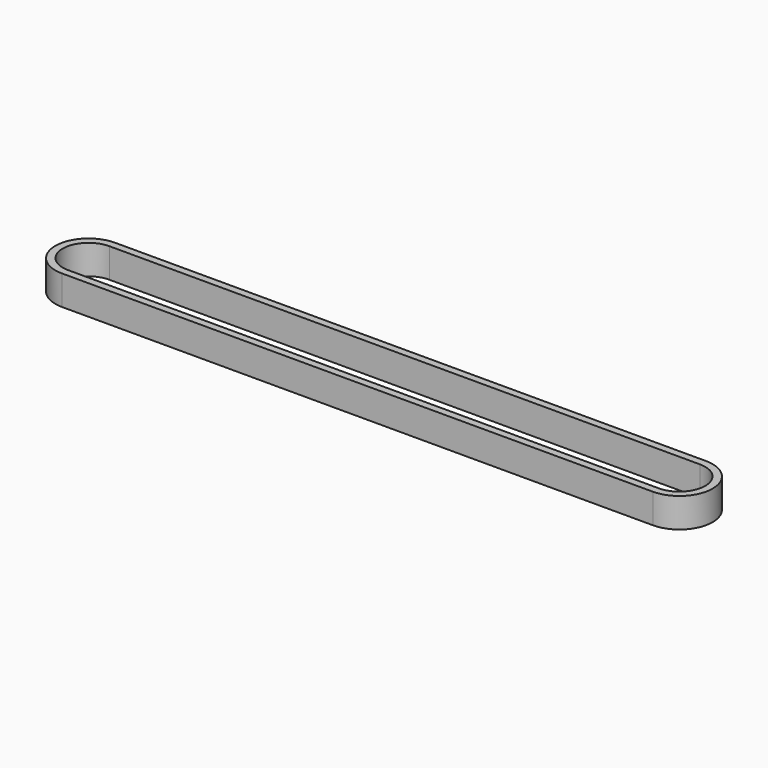
from build123d import *

# Parameters (mm, degrees)
PAD_DEPTH = 6


with BuildPart() as part:
    # Sketch → Pad (new body)
    with BuildSketch(Plane.XY):
        with BuildLine():
            Line((-60, 6.75), (60, 6.75))
            ThreePointArc((59.999999, -6.75), (66.749999, 0), (60, 6.75))
            Line((59.999999, -6.75), (-60.000001, -6.75))
            ThreePointArc((-60, 6.75), (-66.749982, 0), (-60.000001, -6.75))
        make_face()
        with BuildLine():
            Line((-60.000001, -5.25), (59.999999, -5.25))
            ThreePointArc((59.999999, -5.25), (65.249999, -2e-06), (60.000003, 5.25))
            Line((-59.999997, 5.25), (60.000003, 5.25))
            ThreePointArc((-59.999997, 5.25), (-65.249982, 2e-06), (-60.000001, -5.25))
        make_face(mode=Mode.SUBTRACT)
    extrude(amount=PAD_DEPTH)


solid = part.part
